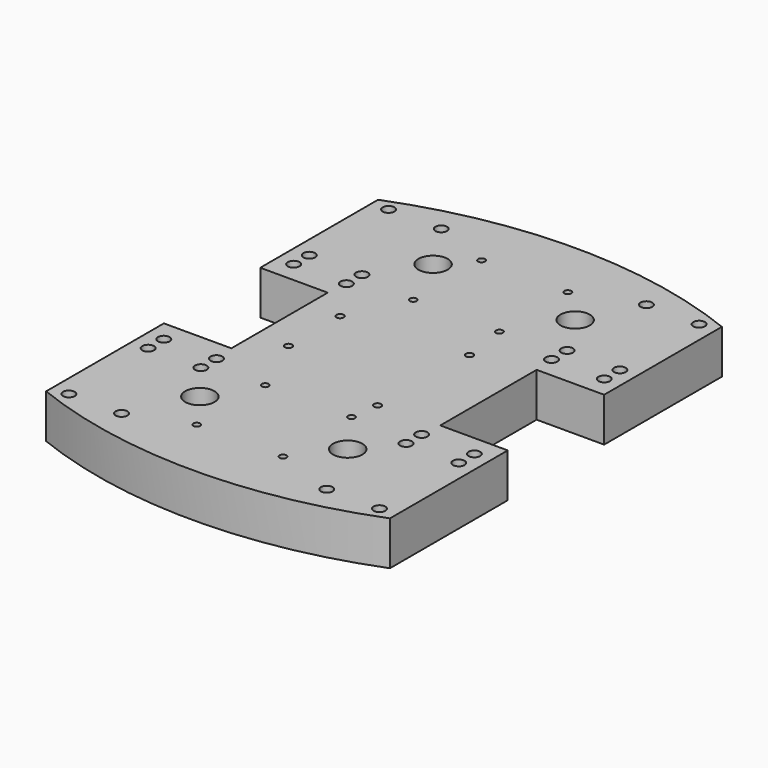
from build123d import *

# Parameters (mm, degrees)
F0_R     = 2.54
F0_R_2   = 1.4986
F0_R_3   = 6.360074
F0_R_4   = 1.5875
F1_DEPTH = 19.05


with BuildPart() as f1:
    # F0 (on Top) → F1 (new body)
    with BuildSketch(Plane.XY):
        with BuildLine():
            Line((74.589707, 26.132662), (74.589707, 90.005893))
            ThreePointArc((74.589707, 90.005893), (0, 104.142881), (-74.589707, 90.005893))
            Line((-74.589707, 90.005893), (-74.589707, 26.132662))
            Line((-74.589707, 26.132662), (-45.310471, 26.132662))
            Line((-45.310471, 26.132662), (-45.310471, -26.132662))
            Line((-45.310471, -26.132662), (-74.589707, -26.132662))
            Line((-74.589707, -26.132662), (-74.589707, -90.005893))
            ThreePointArc((-74.589707, -90.005893), (0, -104.142881), (74.589707, -90.005893))
            Line((74.589707, -90.005893), (74.589707, -26.132662))
            Line((74.589707, -26.132662), (45.310471, -26.132662))
            Line((45.310471, -26.132662), (45.310471, 26.132662))
            Line((45.310471, 26.132662), (74.589707, 26.132662))
        make_face()
        with Locations((-67.364627, -86.673815)):
            Circle(F0_R, mode=Mode.SUBTRACT)
        with Locations((-44.504627, -86.673815)):
            Circle(F0_R, mode=Mode.SUBTRACT)
        with Locations((-19.447715, -77.214572)):
            Circle(F0_R_2, mode=Mode.SUBTRACT)
        with Locations((-31.509046, -60.463414)):
            Circle(F0_R_3, mode=Mode.SUBTRACT)
        with Locations((-67.364627, -43.681448)):
            Circle(F0_R, mode=Mode.SUBTRACT)
        with Locations((-67.364627, -35.219034)):
            Circle(F0_R, mode=Mode.SUBTRACT)
        with Locations((-44.504627, -43.681448)):
            Circle(F0_R, mode=Mode.SUBTRACT)
        with Locations((-44.504627, -35.219034)):
            Circle(F0_R, mode=Mode.SUBTRACT)
        with Locations((-19.447715, -40.127574)):
            Circle(F0_R_2, mode=Mode.SUBTRACT)
        with Locations((-31.293867, -12.662212)):
            Circle(F0_R_4, mode=Mode.SUBTRACT)
        with Locations((17.985267, -77.214572)):
            Circle(F0_R_2, mode=Mode.SUBTRACT)
        with Locations((31.674664, -59.26675)):
            Circle(F0_R_3, mode=Mode.SUBTRACT)
        with Locations((44.504627, -86.673815)):
            Circle(F0_R, mode=Mode.SUBTRACT)
        with Locations((67.364627, -86.673815)):
            Circle(F0_R, mode=Mode.SUBTRACT)
        with Locations((17.985267, -40.127574)):
            Circle(F0_R_2, mode=Mode.SUBTRACT)
        with Locations((19.506133, -27.889512)):
            Circle(F0_R_4, mode=Mode.SUBTRACT)
        with Locations((44.504627, -43.681448)):
            Circle(F0_R, mode=Mode.SUBTRACT)
        with Locations((44.504627, -35.219034)):
            Circle(F0_R, mode=Mode.SUBTRACT)
        with Locations((67.364627, -43.681448)):
            Circle(F0_R, mode=Mode.SUBTRACT)
        with Locations((67.364627, -35.219034)):
            Circle(F0_R, mode=Mode.SUBTRACT)
        with Locations((-67.364627, 35.219034)):
            Circle(F0_R, mode=Mode.SUBTRACT)
        with Locations((-67.364627, 43.681448)):
            Circle(F0_R, mode=Mode.SUBTRACT)
        with Locations((-44.504627, 35.219034)):
            Circle(F0_R, mode=Mode.SUBTRACT)
        with Locations((-44.504627, 43.681448)):
            Circle(F0_R, mode=Mode.SUBTRACT)
        with Locations((-31.281167, 15.293622)):
            Circle(F0_R_4, mode=Mode.SUBTRACT)
        with Locations((-19.447715, 40.127574)):
            Circle(F0_R_2, mode=Mode.SUBTRACT)
        with Locations((-67.364627, 86.673815)):
            Circle(F0_R, mode=Mode.SUBTRACT)
        with Locations((-44.504627, 86.673815)):
            Circle(F0_R, mode=Mode.SUBTRACT)
        with Locations((-30.464375, 64.66724)):
            Circle(F0_R_3, mode=Mode.SUBTRACT)
        with Locations((-19.447715, 77.214572)):
            Circle(F0_R_2, mode=Mode.SUBTRACT)
        with Locations((20.776133, 20.411722)):
            Circle(F0_R_4, mode=Mode.SUBTRACT)
        with Locations((17.985267, 40.127574)):
            Circle(F0_R_2, mode=Mode.SUBTRACT)
        with Locations((44.504627, 35.219034)):
            Circle(F0_R, mode=Mode.SUBTRACT)
        with Locations((44.504627, 43.681448)):
            Circle(F0_R, mode=Mode.SUBTRACT)
        with Locations((67.364627, 35.219034)):
            Circle(F0_R, mode=Mode.SUBTRACT)
        with Locations((67.364627, 43.681448)):
            Circle(F0_R, mode=Mode.SUBTRACT)
        with Locations((17.985267, 77.214572)):
            Circle(F0_R_2, mode=Mode.SUBTRACT)
        with Locations((32.647382, 62.834114)):
            Circle(F0_R_3, mode=Mode.SUBTRACT)
        with Locations((44.504627, 86.673815)):
            Circle(F0_R, mode=Mode.SUBTRACT)
        with Locations((67.364627, 86.673815)):
            Circle(F0_R, mode=Mode.SUBTRACT)
    extrude(amount=F1_DEPTH)


solid = f1.part
